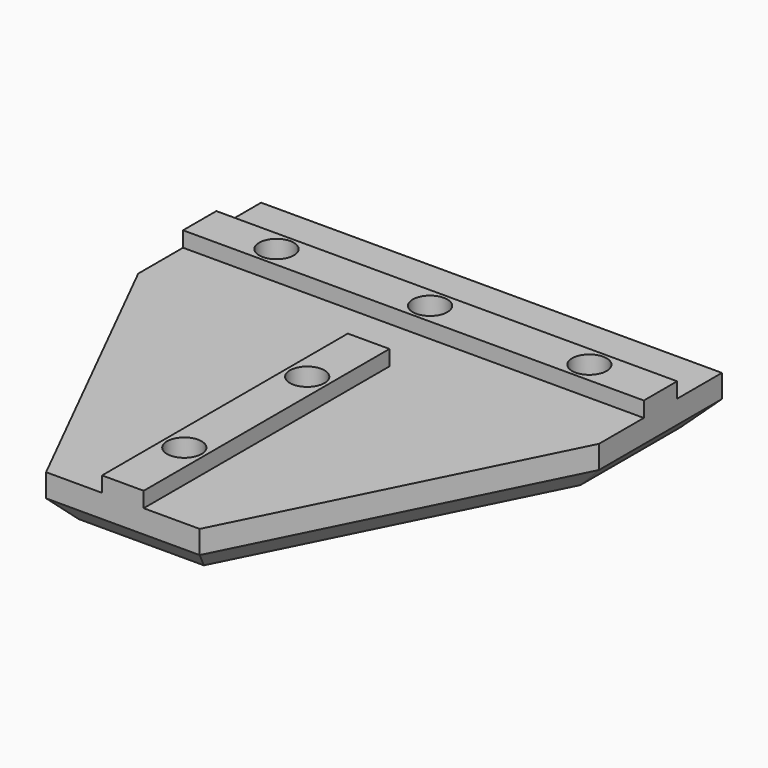
from build123d import *

# Parameters (mm, degrees)
F1_DEPTH = 6
F3_DEPTH = 2
F4_R     = 2.25
F5_DEPTH = 8.001
F6_R     = 3.75
F7_DEPTH = 2
F9_DEPTH = 6
F10_SIZE = 3


with BuildPart() as f1:
    # F0 (on Top) → F1 (new body)
    with BuildSketch(Plane.XY):
        Polygon((-30, 0), (-10, 0), (-10, -40), (0, -40), (10, -40), (10, 0), (30, 0), (30, 20), (0, 20), (-30, 20), align=None)
    extrude(amount=F1_DEPTH)

    # F2 (on face) → F3 (join)
    with BuildSketch(Plane.XY.offset(6)):
        Polygon((2.71, 0), (0, 0), (-2.71, 0), (-2.71, -40), (2.71, -40), align=None)
        Polygon((30, 7.29), (30, 12.71), (-30, 12.71), (-30, 10), (-30, 7.29), align=None)
    extrude(amount=F3_DEPTH)

    # F4 (on face) → F5 (cut, through all)
    with BuildSketch(Plane(origin=(0, 0, 0), x_dir=(1, 0, 0), z_dir=(0, 0, -1))):
        with Locations((-20, -10)):
            Circle(F4_R)
        with Locations((0, 10)):
            Circle(F4_R)
        with Locations((0, 30)):
            Circle(F4_R)
        with Locations((20.741304, -10)):
            Circle(F4_R)
        with Locations((0, -10)):
            Circle(F4_R)
    extrude(amount=-F5_DEPTH, mode=Mode.SUBTRACT)

    # F6 (on face) → F7 (cut)
    with BuildSketch(Plane(origin=(0, 0, 0), x_dir=(1, 0, 0), z_dir=(0, 0, -1))):
        with Locations((0, 30)):
            Circle(F6_R)
        with Locations((0, 10)):
            Circle(F6_R)
        with Locations((20.741304, -10)):
            Circle(F6_R)
        with Locations((-20, -10)):
            Circle(F6_R)
        with Locations((0, -10)):
            Circle(F6_R)
    extrude(amount=-F7_DEPTH, mode=Mode.SUBTRACT)

    # F8 (on face) → F9 (join)
    with BuildSketch(Plane(origin=(0, 0, 0), x_dir=(1, 0, 0), z_dir=(0, 0, -1))):
        Polygon((-10, 0), (-10, 40), (-30, 0), align=None)
        Polygon((30, 0), (10, 40), (10, 0), align=None)
    extrude(amount=-F9_DEPTH)

    # F10
    f10_edges = [f1.edges().sort_by_distance(p)[0] for p in [
        (0, -40, 0),
        (-20, -20, 0),
        (20, -20, 0),
        (30, 10, 0),
        (0, 20, 0),
        (-30, 10, 0),
    ]]
    chamfer(f10_edges, length=F10_SIZE)


solid = f1.part
